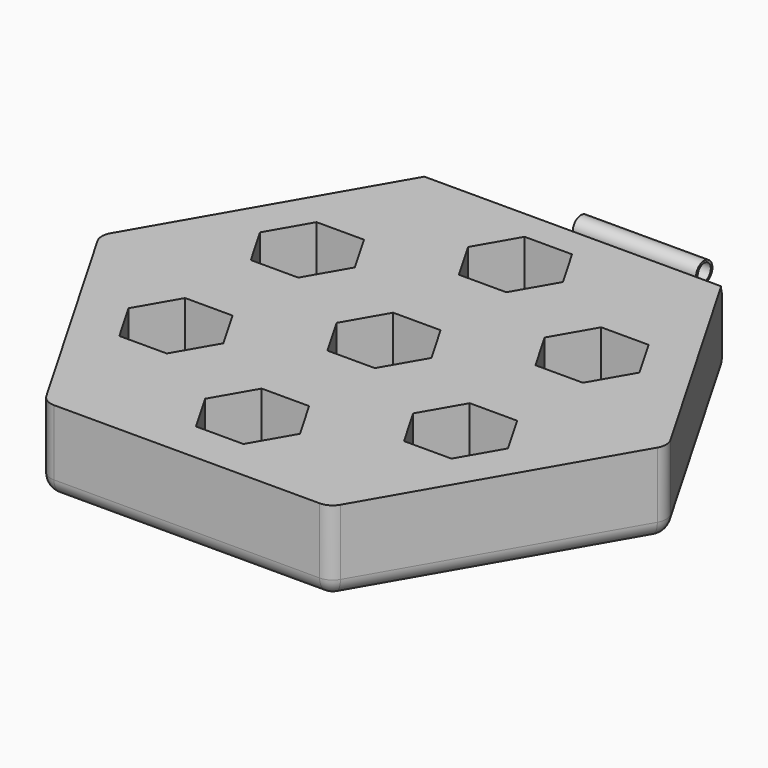
from build123d import *

# Parameters (mm, degrees)
F1_DEPTH      = 25.4
F3_DEPTH      = 19.05
F4_R          = 5.08
F5_R          = 3.175
F6_DEPTH      = 87.203302
F6_DEPTH_BACK = 87.203302
F7_DEPTH      = 38.1
F8_R          = 2.54
F9_DEPTH      = 125.303302


with BuildPart() as f1:
    # F0 (on Top) → F1 (new body)
    with BuildSketch(Plane.XY):
        Polygon((-43.994091, -76.2), (43.994091, -76.2), (87.988181, 0), (43.994091, 76.2), (-43.994091, 76.2), (-87.988181, 0), align=None)
    extrude(amount=F1_DEPTH)

    # F2 (on face) → F3 (cut)
    with BuildSketch(Plane.XY.offset(25.4)):
        Polygon((-7.332348, -12.7), (7.332348, -12.7), (14.664697, 0), (7.332348, 12.7), (-7.332348, 12.7), (-14.664697, 0), align=None)
        Polygon((-7.332348, 38.1), (7.332348, 38.1), (14.664697, 50.8), (7.332348, 63.5), (-7.332348, 63.5), (-14.664697, 50.8), align=None)
        Polygon((-29.329394, 25.4), (-36.661742, 38.1), (-51.326439, 38.1), (-58.658787, 25.4), (-51.326439, 12.7), (-36.661742, 12.7), align=None)
        Polygon((-36.661742, -12.7), (-51.326439, -12.7), (-58.658787, -25.4), (-51.326439, -38.1), (-36.661742, -38.1), (-29.329394, -25.4), align=None)
        Polygon((-7.332348, -38.1), (-14.664697, -50.8), (-7.332348, -63.5), (7.332348, -63.5), (14.664697, -50.8), (7.332348, -38.1), align=None)
        Polygon((29.329394, -25.4), (36.661742, -38.1), (51.326439, -38.1), (58.658787, -25.4), (51.326439, -12.7), (36.661742, -12.7), align=None)
        Polygon((36.661742, 12.7), (51.326439, 12.7), (58.658787, 25.4), (51.326439, 38.1), (36.661742, 38.1), (29.329394, 25.4), align=None)
    extrude(amount=-F3_DEPTH, mode=Mode.SUBTRACT)

    # F4
    f4_edges = [f1.edges().sort_by_distance(p)[0] for p in [
        (0, -76.2, 0),
        (65.991136, -38.1, 0),
        (65.991136, 38.1, 0),
        (0, 76.2, 0),
        (-65.991136, 38.1, 0),
        (-65.991136, -38.1, 0),
        (43.994091, -76.2, 12.7),
        (87.988181, 0, 12.7),
        (-43.994091, -76.2, 12.7),
        (-43.994091, 76.2, 12.7),
        (43.994091, 76.2, 12.7),
        (-87.988181, 0, 12.7),
    ]]
    fillet(f4_edges, radius=F4_R)

    # F5 (on Right) → F6 (cut, two sides)
    with BuildSketch(Plane.YZ) as f6_sk:
        with Locations((76.11011, 25.39102)):
            Circle(F5_R)
    extrude(amount=F6_DEPTH, mode=Mode.SUBTRACT)
    extrude(f6_sk.sketch, amount=-F6_DEPTH_BACK, mode=Mode.SUBTRACT)

    # F5 (on Right) → F7 (join)
    with BuildSketch(Plane.YZ):
        with Locations((76.11011, 25.39102)):
            Circle(F5_R)
    extrude(amount=F7_DEPTH)

    # F8 (on face) → F9 (cut, through all)
    with BuildSketch(Plane.YZ.offset(38.1)):
        with Locations((76.11011, 25.39102)):
            Circle(F8_R)
    extrude(amount=-F9_DEPTH, mode=Mode.SUBTRACT)


solid = f1.part
